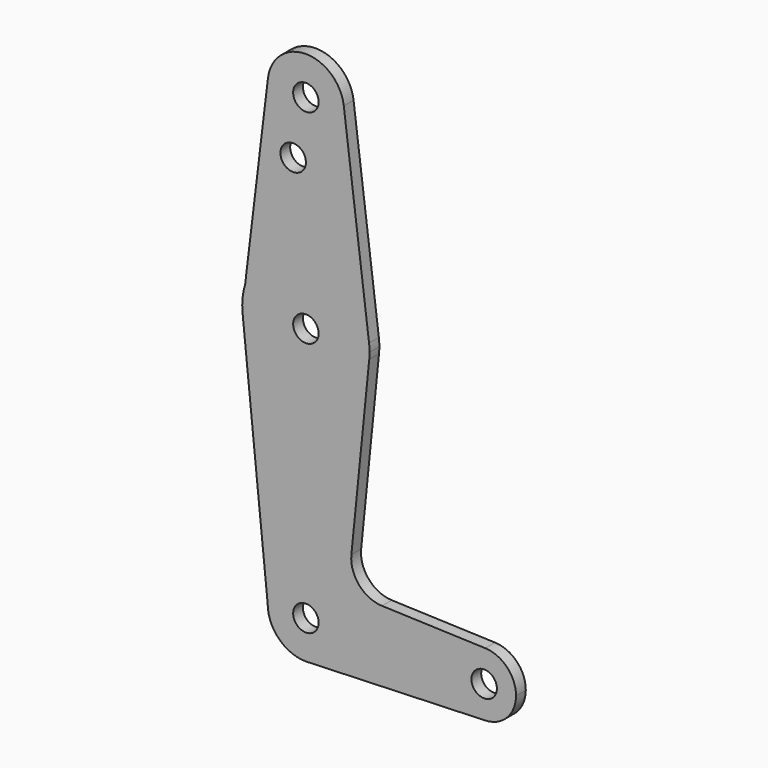
from build123d import *

# Parameters (mm, degrees)
F0_R     = 3.175
F1_DEPTH = 3.048


with BuildPart() as f1:
    # F0 (on Front) → F1 (new body)
    with BuildSketch(Plane.XZ):
        with BuildLine():
            ThreePointArc((0.6773435479, -9.500885786), (6.9705567315, -6.4912990883), (9.525, 0))
            ThreePointArc((9.525, 0), (0, 9.525), (-9.525, 0))
            ThreePointArc((-9.525, 0), (-6.7351920908, -6.7351920908), (0, -9.525))
            Line((0, -9.525), (0.6773435479, -9.500885786))
        make_face()
        Circle(F0_R, mode=Mode.SUBTRACT)
        with BuildLine():
            ThreePointArc((-9.525, 0), (0, 9.525), (9.525, 0))
            ThreePointArc((9.525, 0), (6.9705567315, -6.4912990883), (0.6773435479, -9.500885786))
            Line((0.6773435479, -9.500885786), (44.7324052746, -7.9324746146))
            ThreePointArc((44.7324052746, -7.9324746146), (36.5125000183, 0.0005387766), (44.7334821429, 7.9324362036))
            Line((44.7334821429, 7.9324362036), (18.9676000005, 8.8532337108))
            ThreePointArc((18.9676000005, 8.8532337108), (13.2611998974, 11.5713591498), (11.3411865923, 17.5933818124))
            Line((11.3411865923, 17.5933818124), (15.7954255641, 61.9125))
            ThreePointArc((15.7954255641, 61.9125), (0.0060905531, 47.6250011683), (-15.7942028036, 61.9003804205))
            Line((-15.7942028036, 61.9003804205), (-9.525, 0))
        make_face()
        with BuildLine():
            ThreePointArc((0, -9.525), (0.3388863295, -9.5189695375), (0.6773435479, -9.500885786))
            Line((0.6773435479, -9.500885786), (0, -9.525))
        make_face()
        with BuildLine():
            Line((-15.1599984704, 68.2106338616), (-15.7942028036, 61.9003804205))
            ThreePointArc((-15.7942028036, 61.9003804205), (0.0060905531, 47.6250011683), (15.7954255641, 61.9125))
            Line((15.7954255641, 61.9125), (15.7504882737, 65.484375))
            ThreePointArc((15.7504882737, 65.484375), (1.3947370351, 79.3136122882), (-15.1599984704, 68.2106338616))
        make_face()
        with Locations((0, 63.5)):
            Circle(F0_R, mode=Mode.SUBTRACT)
        with BuildLine():
            ThreePointArc((-15.1599984704, 68.2106338616), (-15.7954255641, 65.0875), (-15.7942028036, 61.9003804205))
            Line((-15.7942028036, 61.9003804205), (-15.1599984704, 68.2106338616))
        make_face()
        with BuildLine():
            ThreePointArc((44.7334821429, 7.9324362036), (36.5125000183, 0.0005387766), (44.7324052746, -7.9324746146))
            ThreePointArc((44.7324052746, -7.9324746146), (50.1616327839, -5.5119104847), (52.3875, 0))
            ThreePointArc((52.3875, 0), (50.1620069047, 5.5115227815), (44.7334821429, 7.9324362036))
        make_face()
        with Locations((44.45, 0)):
            Circle(F0_R, mode=Mode.SUBTRACT)
        with BuildLine():
            Line((-9.4562979514, 115.441951862), (-15.1599984704, 68.2106338616))
            ThreePointArc((-15.1599984704, 68.2106338616), (1.3947370351, 79.3136122882), (15.7504882737, 65.484375))
            Line((15.7504882737, 65.484375), (9.4502929642, 115.490625))
            ThreePointArc((9.4502929642, 115.490625), (9.5063048942, 114.896483242), (9.525, 114.3))
            ThreePointArc((9.525, 114.3), (-0.5720083099, 104.7921910256), (-9.4562979514, 115.441951862))
        make_face()
        with Locations((-3.175, 100.0252)):
            Circle(F0_R, mode=Mode.SUBTRACT)
        with BuildLine():
            Line((15.7504882737, 65.484375), (15.7954255641, 61.9125))
            ThreePointArc((15.7954255641, 61.9125), (15.8550939106, 62.7052534459), (15.875, 63.5))
            ThreePointArc((15.875, 63.5), (15.8438414904, 64.4941387366), (15.7504882737, 65.484375))
        make_face()
        with BuildLine():
            ThreePointArc((9.4502929642, 115.490625), (-0.024521084, 123.8249684365), (-9.4562979514, 115.441951862))
            ThreePointArc((-9.4562979514, 115.441951862), (-0.5720083099, 104.7921910256), (9.525, 114.3))
            ThreePointArc((9.525, 114.3), (9.5063048942, 114.896483242), (9.4502929642, 115.490625))
        make_face()
        with Locations((0, 114.3)):
            Circle(F0_R, mode=Mode.SUBTRACT)
    extrude(amount=F1_DEPTH)


solid = f1.part
